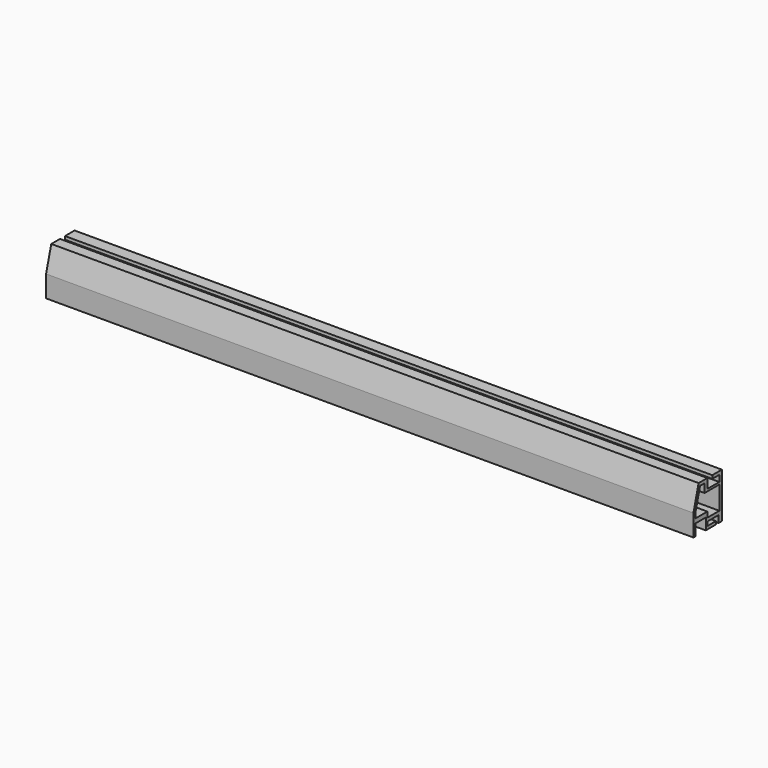
from build123d import *

# Parameters (mm, degrees)
F1_DEPTH = 600


with BuildPart() as f1:
    # F0 (on Right) → F1 (new body)
    with BuildSketch(Plane.YZ):
        Polygon((-3.305976, 29.434485), (-13.398062, 29.434485), (-19.398062, 7.434485), (-19.398062, -12.565515), (-17.035764, -12.565515), (-17.035764, -1.998231), (-5.097699, -1.998231), (-5.097699, -12.565515), (6.724462, -12.565515), (6.724462, -9.763769), (-3.243243, -9.763769), (-3.243243, -6.054855), (9.62205, -6.054855), (9.62205, -12.565515), (13.601938, -12.565515), (13.601938, 29.434485), (2.454791, 29.434485), (2.454791, 26.434485), (10.601938, 26.434485), (10.601938, 20.555265), (-3.305976, 20.555265), align=None)
        Polygon((-16.919861, 7.505859), (-11.740436, 26.497084), (-6.524776, 26.497084), (-6.524776, 18.49974), (10.601938, 18.49974), (10.601938, -2.92546), (-3.243243, -2.92546), (-3.243243, 2.058392), (-16.919861, 2.058392), align=None, mode=Mode.SUBTRACT)
    extrude(amount=F1_DEPTH)


solid = f1.part
